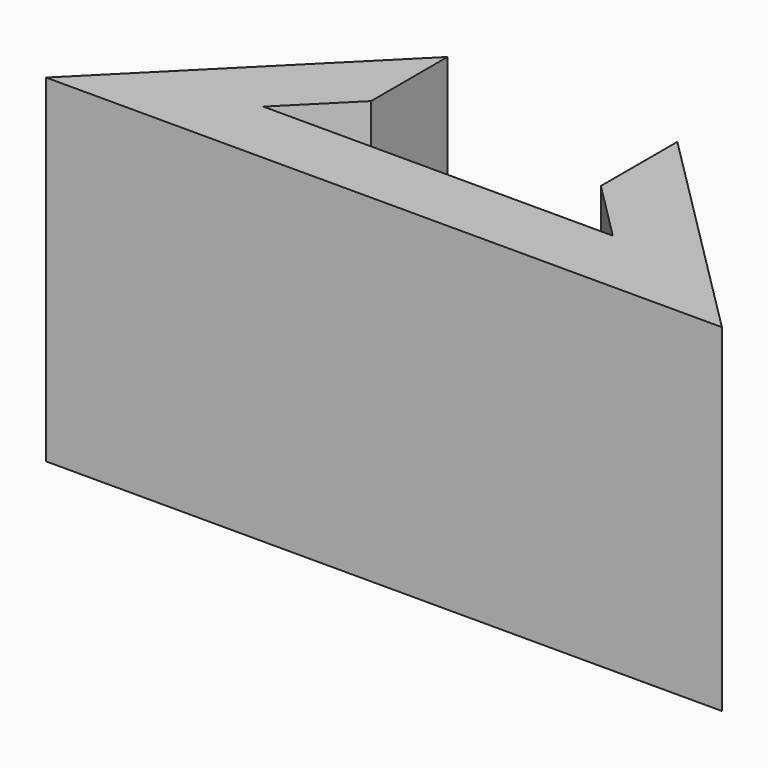
from build123d import *

# Parameters (mm, degrees)
F1_DEPTH = 10
F3_DEPTH = 40


with BuildPart() as f1:
    # F0 (on Top) → F1 (new body)
    with BuildSketch(Plane.XY):
        Polygon((-5, 22.5), (-50, -22.5), (50, -22.5), (5, 22.5), align=None)
    extrude(amount=F1_DEPTH)

    # F2 (on face) → F3 (join)
    with BuildSketch(Plane.XY.offset(10)):
        Polygon((25.857864, -12.5), (-25.857864, -12.5), (-17, -3.642136), (-17, 10.5), (-50, -22.5), (50, -22.5), (17, 10.5), (17, -3.642136), align=None)
    extrude(amount=F3_DEPTH)


solid = f1.part
